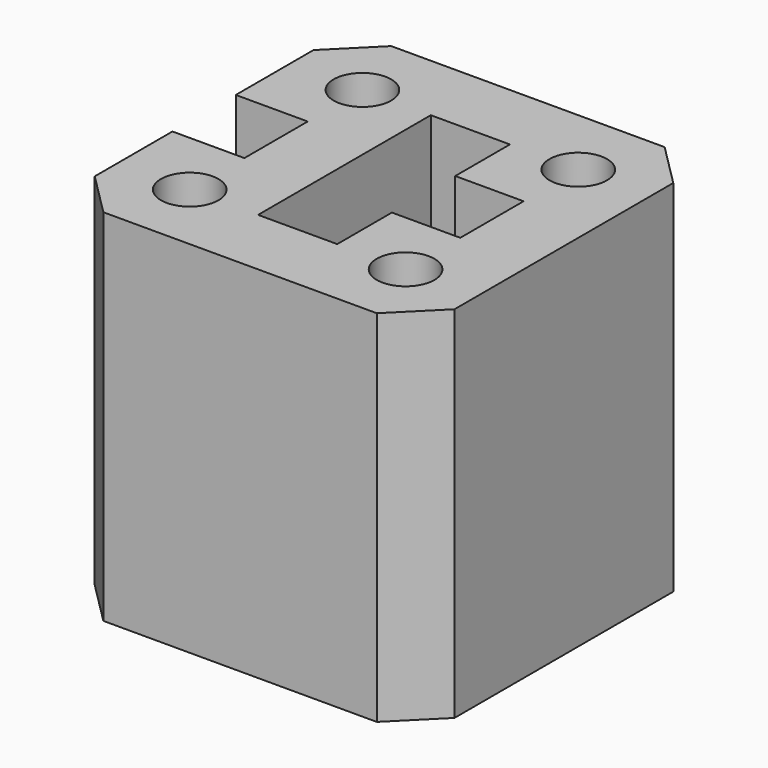
from build123d import *

# Parameters (mm, degrees)
F0_R     = 20
F1_DEPTH = 125


with BuildPart() as f1:
    # F0 (on Top) → F1 (new body, symmetric)
    with BuildSketch(Plane.XY):
        Polygon((125, 95), (95, 125), (-95, 125), (-125, 95), (-125, 27.5), (-75, 27.5), (-75, -27.5), (-125, -27.5), (-125, -95), (-95, -125), (95, -125), (125, -95), align=None)
        with Locations((-75, -75)):
            Circle(F0_R, mode=Mode.SUBTRACT)
        with Locations((75, -75)):
            Circle(F0_R, mode=Mode.SUBTRACT)
        with Locations((-75, 75)):
            Circle(F0_R, mode=Mode.SUBTRACT)
        Polygon((-27.5, -75), (-27.5, 75), (27.5, 75), (27.5, 27.5), (75, 27.5), (75, -27.5), (27.5, -27.5), (27.5, -75), align=None, mode=Mode.SUBTRACT)
        with Locations((75, 75)):
            Circle(F0_R, mode=Mode.SUBTRACT)
    extrude(amount=F1_DEPTH, both=True)


solid = f1.part
